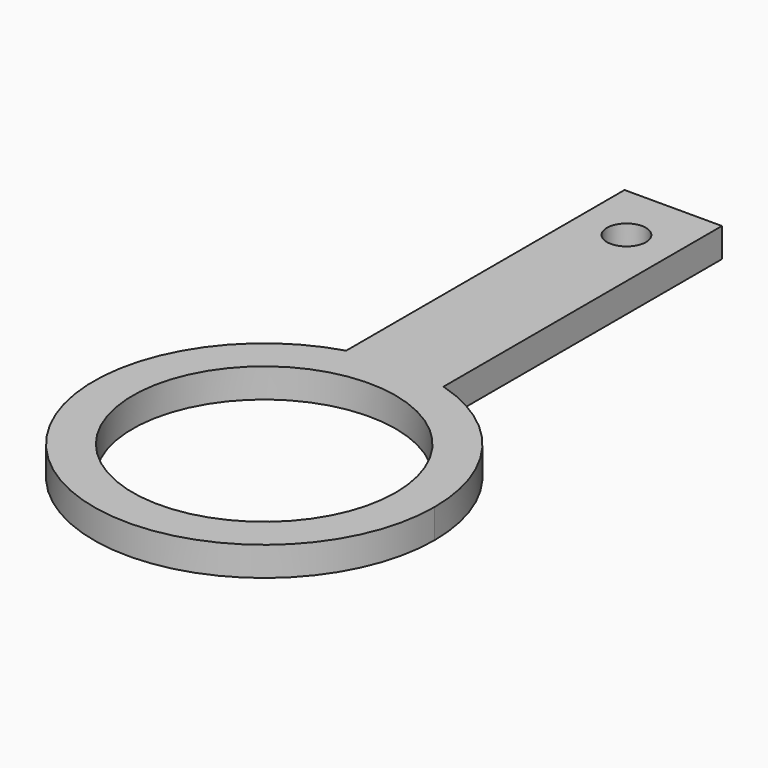
from build123d import *

# Parameters (mm, degrees)
F0_R     = 13.5
F0_R_2   = 2
F1_DEPTH = 3


with BuildPart() as f1:
    # F0 (on Top) → F1 (new body)
    with BuildSketch(Plane.XY):
        with BuildLine():
            ThreePointArc((-5, 16.77051), (-10.45825, -14.031215), (17.5, 0))
            ThreePointArc((17.5, 0), (14.031215, 10.45825), (5, 16.77051))
            ThreePointArc((5, 16.77051), (0, 17.5), (-5, 16.77051))
        make_face()
        Circle(F0_R, mode=Mode.SUBTRACT)
        with BuildLine():
            ThreePointArc((-5, 16.77051), (0, 17.5), (5, 16.77051))
            Line((5, 16.77051), (5, 17.5))
            Line((5, 17.5), (5, 52.5))
            Line((5, 52.5), (-5, 52.5))
            Line((-5, 52.5), (-5, 17.5))
            Line((-5, 17.5), (-5, 16.77051))
        make_face()
        with Locations((0, 46.5)):
            Circle(F0_R_2, mode=Mode.SUBTRACT)
    extrude(amount=F1_DEPTH)


solid = f1.part
